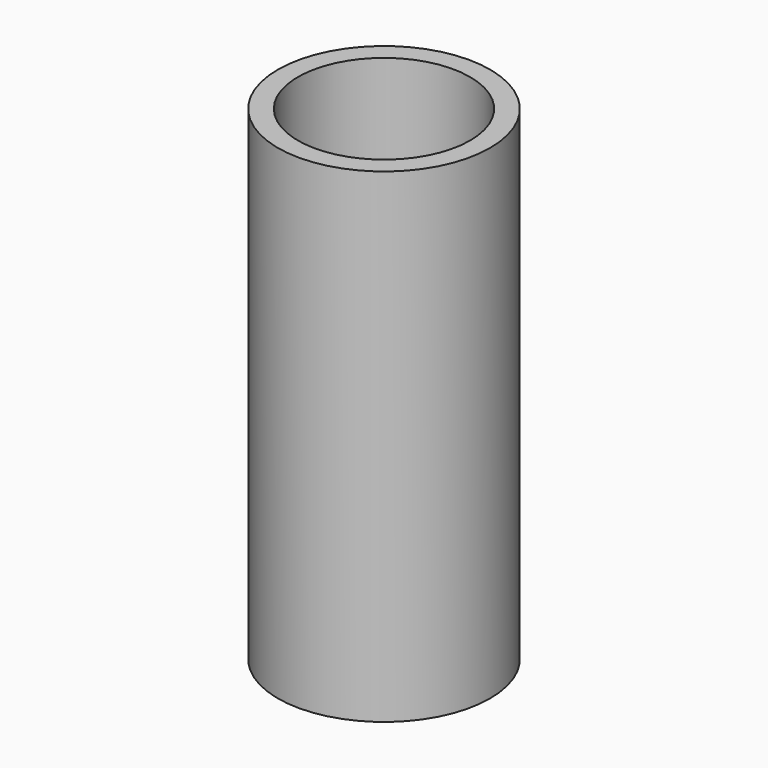
from build123d import *

# Parameters (mm, degrees)
SKETCH_R   = 25.4
SKETCH_R_2 = 20.6
PAD_DEPTH  = 116


with BuildPart() as part:
    # Sketch → Pad (new body)
    with BuildSketch(Plane.XY):
        Circle(SKETCH_R)
        Circle(SKETCH_R_2, mode=Mode.SUBTRACT)
    extrude(amount=PAD_DEPTH)


solid = part.part
